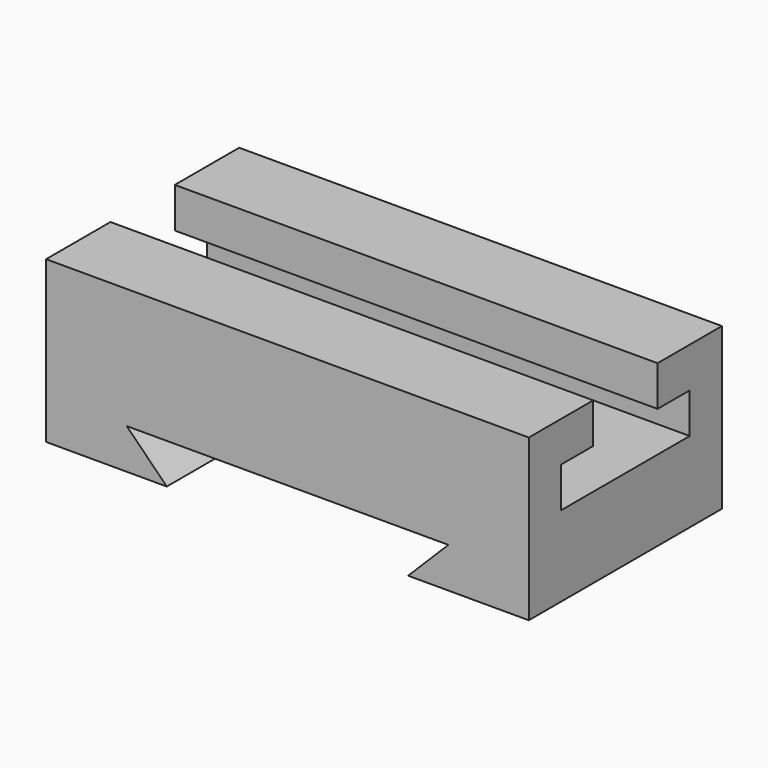
from build123d import *

# Parameters (mm, degrees)
F1_DEPTH = 152.4
F3_DEPTH = 76.2


with BuildPart() as f1:
    # F0 (on Right) → F1 (new body)
    with BuildSketch(Plane.YZ):
        Polygon((25.4, 50.8), (0, 50.8), (0, 0), (76.2, 0), (76.2, 50.8), (50.8, 50.8), (50.8, 38.1), (63.5, 38.1), (63.5, 25.4), (12.7, 25.4), (12.7, 38.1), (25.4, 38.1), align=None)
    extrude(amount=F1_DEPTH)

    # F2 (on face) → F3 (cut, through all)
    with BuildSketch(Plane.XZ):
        Polygon((114.3, 0), (127, 12.7), (25.48896, 12.7), (38.1, 0), align=None)
    extrude(amount=-F3_DEPTH, mode=Mode.SUBTRACT)


solid = f1.part
